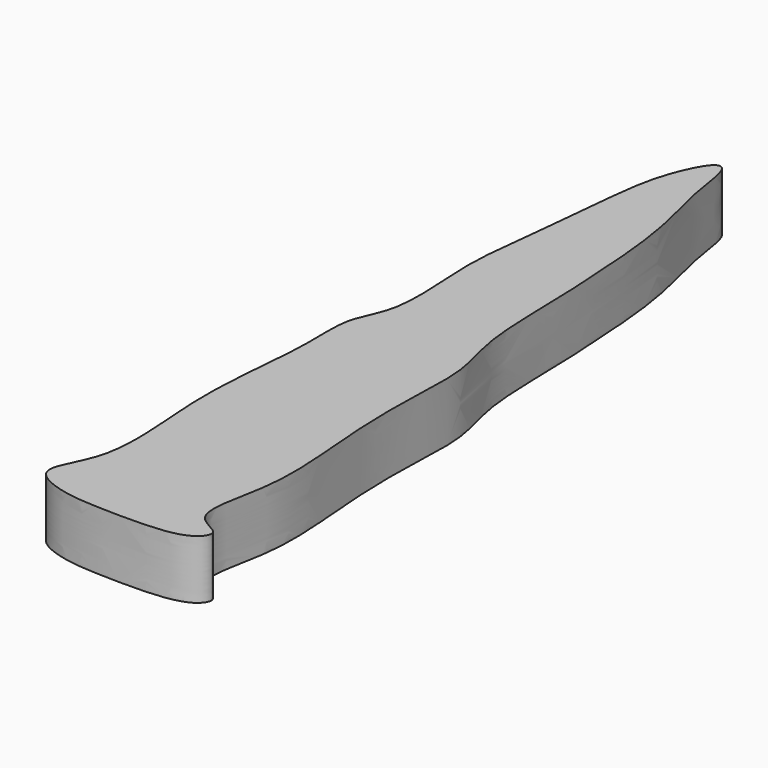
from build123d import *

# Parameters (mm, degrees)
F1_DEPTH = 5


with BuildPart() as f1:
    # F0 (on Top) → F1 (new body)
    with BuildSketch(Plane.XY):
        with BuildLine():
            add(Edge.make_bspline(
                [(-48.5530756414, 4.1030771099), (-48.3333535362, 3.3187328034), (-45.832997103, 2.2631618155), (-42.2897327994, 2.1434742221), (-38.7236805996, 2.0550559613), (-35.0437758494, 2.463182881), (-33.9283346733, 4.389907805), (-37.5139039628, 5.1288771126), (-35.180513813, 11.9967290498), (-36.1703214969, 19.8291645579), (-36.3665606954, 26.9924439426), (-35.8888970523, 32.7235323366), (-37.5655917152, 36.9660333299), (-37.565847933, 44.3502492131), (-37.7980343297, 48.3332874851), (-38.2981563579, 56.655693986), (-40.0638519674, 62.0164241218), (-40.403476262, 66.0980596666), (-41.5174166255, 66.4917725903), (-42.9200717749, 63.8765858328), (-43.812614609, 60.4807479809), (-44.2061031919, 55.3134410258), (-45.0812676833, 47.9362269986), (-45.403300488, 44.0008676692), (-44.6291810875, 36.7610988935), (-46.8741856244, 33.6879087946), (-46.2846649942, 28.3662916366), (-47.8268266375, 18.6291945903), (-45.9439275643, 8.5107003977), (-48.8176721081, 5.0476098959), (-48.5530756414, 4.1030771099)],
                knots=[0, 0, 0, 0, 0.0282322361, 0.0598171546, 0.0913151968, 0.1223447906, 0.1410606516, 0.1654607885, 0.2057360513, 0.2531274412, 0.2970903842, 0.335327539, 0.3703852764, 0.4137755641, 0.4476866654, 0.4940662602, 0.5348030734, 0.5658326648, 0.5786827833, 0.6047754715, 0.6360084018, 0.6736719071, 0.717754678, 0.751665794, 0.7944162372, 0.8250977984, 0.86124295, 0.9133947151, 0.966001828, 1, 1, 1, 1], degree=3))
        make_face()
    extrude(amount=F1_DEPTH)


solid = f1.part
